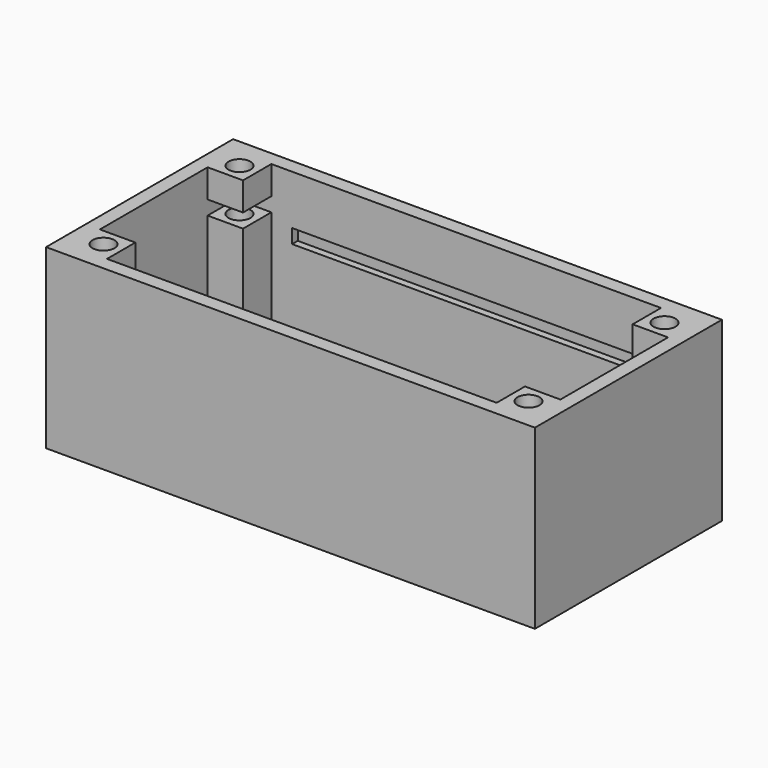
from build123d import *

# Parameters (mm, degrees)
F0_W     = 69
F0_H     = 33
F0_W_2   = 5
F0_H_2   = 5
F0_R     = 1.55
F1_DEPTH = 25
F3_W     = 50
F3_H     = 31
F4_DEPTH = 2
F6_W     = 15.3119070455
F6_H     = 28.5653881729
F7_DEPTH = 2
F8_W     = 5
F8_H     = 29.938359429
F8_R     = 1.55
F9_DEPTH = 2


with BuildPart() as f1:
    # F0 (on Top) → F1 (new body)
    with BuildSketch(Plane.XY):
        with Locations((32.5, -14.5)):
            Rectangle(F0_W, F0_H)
        Polygon((0, -5), (0, 0), (5, 0), (60, 0), (65, 0), (65, -5), (65, -24), (65, -29), (60, -29), (5, -29), (0, -29), (0, -24), align=None, mode=Mode.SUBTRACT)
        with Locations((2.5, -2.5)):
            Rectangle(F0_W_2, F0_H_2)
        with Locations((2.5, -2.5)):
            Circle(F0_R, mode=Mode.SUBTRACT)
        with Locations((62.5, -2.5)):
            Rectangle(F0_W_2, F0_H_2)
        with Locations((62.5, -2.5)):
            Circle(F0_R, mode=Mode.SUBTRACT)
        with Locations((62.5, -26.5)):
            Rectangle(F0_W_2, F0_H_2)
        with Locations((62.5, -26.5)):
            Circle(F0_R, mode=Mode.SUBTRACT)
        with Locations((2.5, -26.5)):
            Rectangle(F0_W_2, F0_H_2)
        with Locations((2.5, -26.5)):
            Circle(F0_R, mode=Mode.SUBTRACT)
    extrude(amount=F1_DEPTH)

    # F3 (on offset) → F4 (cut)
    with BuildSketch(Plane.XY.offset(16)):
        with Locations((32.9331636816, -14.5)):
            Rectangle(F3_W, F3_H)
    extrude(amount=F4_DEPTH, mode=Mode.SUBTRACT)

    # F6 (on offset) → F7 (cut)
    with BuildSketch(Plane.XY.offset(19)):
        with Locations((7.6559535228, -14.2826940864)):
            Rectangle(F6_W, F6_H)
    extrude(amount=F7_DEPTH, mode=Mode.SUBTRACT)

    # F8 (on Top) → F9 (join)
    with BuildSketch(Plane.XY):
        with Locations((20, -14.9691797145)):
            Rectangle(F8_W, F8_H)
        with Locations((20, -23)):
            Circle(F8_R, mode=Mode.SUBTRACT)
        with Locations((20, -6)):
            Circle(F8_R, mode=Mode.SUBTRACT)
        with Locations((45, -14.9691797145)):
            Rectangle(F8_W, F8_H)
        with Locations((45, -23)):
            Circle(F8_R, mode=Mode.SUBTRACT)
        with Locations((45, -6)):
            Circle(F8_R, mode=Mode.SUBTRACT)
    extrude(amount=F9_DEPTH)


solid = f1.part
